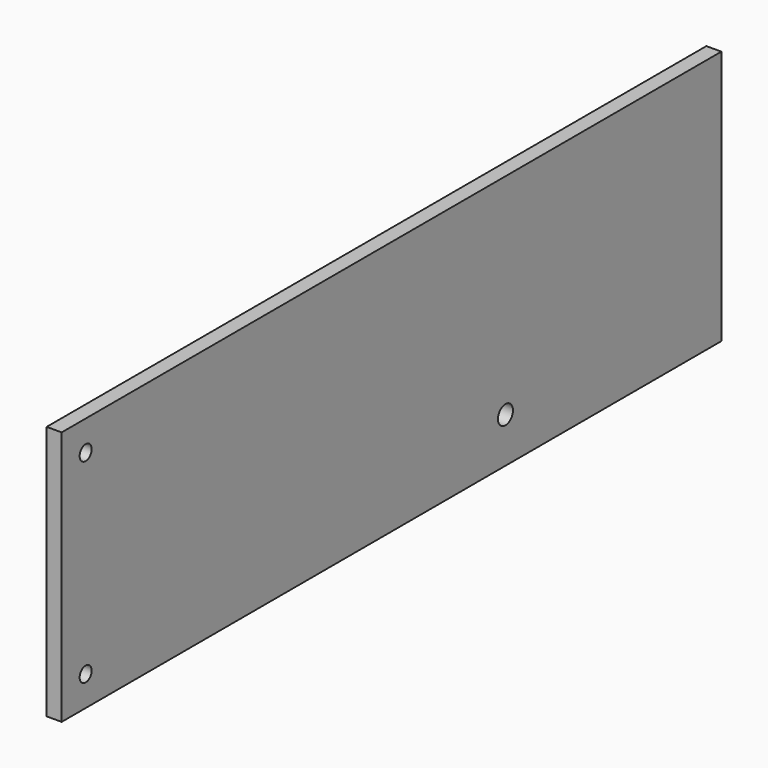
from build123d import *

# Parameters (mm, degrees)
F0_W     = 698.5
F0_H     = 215.9
F0_R     = 6.35
F0_R_2   = 7.9375
F1_DEPTH = 12.7


with BuildPart() as f1:
    # F0 (on Right) → F1 (new body)
    with BuildSketch(Plane.YZ):
        with Locations((-120.65, 58.467444)):
            Rectangle(F0_W, F0_H)
        with Locations((-444.5, -24.082556)):
            Circle(F0_R, mode=Mode.SUBTRACT)
        with Locations((0, -11.382556)):
            Circle(F0_R_2, mode=Mode.SUBTRACT)
        with Locations((-444.5, 141.017444)):
            Circle(F0_R, mode=Mode.SUBTRACT)
    extrude(amount=F1_DEPTH)


solid = f1.part
